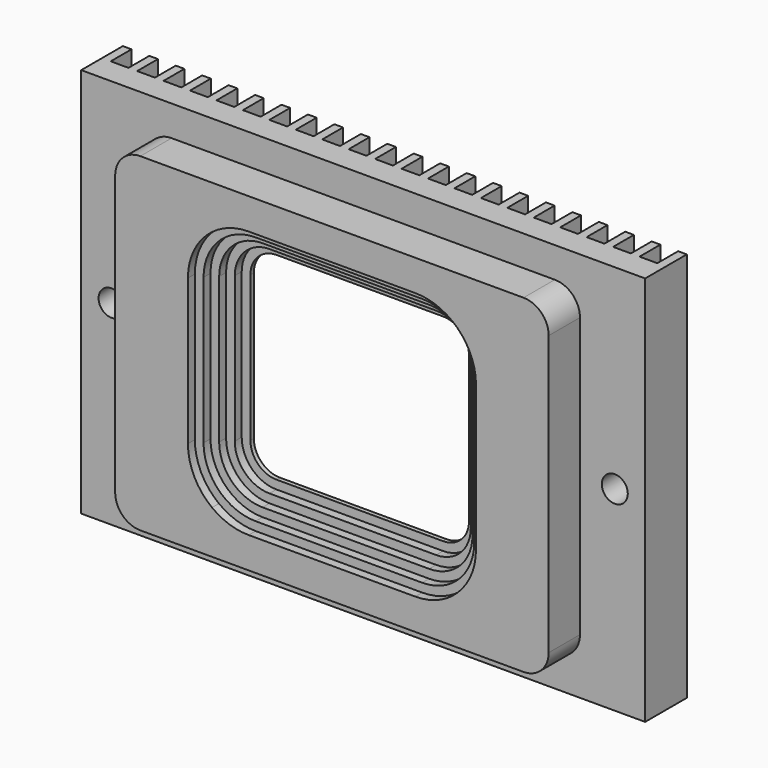
from build123d import *

# Parameters (mm, degrees)
F0_W      = 65
F0_H      = 45
F1_DEPTH  = 3
F3_DEPTH  = 4.5
F4_R      = 1.5
F5_DEPTH  = 25
F7_DEPTH  = 2
F9_DEPTH  = 4
F11_DEPTH = 3
F13_DEPTH = 2
F15_DEPTH = 1
F17_DEPTH = 1
F18_W     = 1
F18_H     = 4.5
F18_H_2   = 45
F19_DEPTH = 3


with BuildPart() as f1:
    # F0 (on Front) → F1 (new body)
    with BuildSketch(Plane.XZ):
        Rectangle(F0_W, F0_H)
        Rectangle(F0_W, F0_H)
    extrude(amount=F1_DEPTH)

    # F2 (on face) → F3 (join)
    with BuildSketch(Plane.XZ.offset(3)):
        with BuildLine():
            Line((22.085, 18.985), (-22.085, 18.985))
            ThreePointArc((-22.085, 18.985), (-24.1356096654, 18.1356096654), (-24.985, 16.085))
            Line((-24.985, 16.085), (-24.985, -16.085))
            ThreePointArc((-24.985, -16.085), (-24.1356096654, -18.1356096654), (-22.085, -18.985))
            Line((-22.085, -18.985), (22.085, -18.985))
            ThreePointArc((22.085, -18.985), (24.1356096654, -18.1356096654), (24.985, -16.085))
            Line((24.985, -16.085), (24.985, 16.085))
            ThreePointArc((24.985, 16.085), (24.1356096654, 18.1356096654), (22.085, 18.985))
        make_face()
    extrude(amount=F3_DEPTH)

    # F4 (on face) → F5 (cut)
    with BuildSketch(Plane.XZ.offset(7.5)):
        with BuildLine():
            Line((9.6, 11.4), (-9.6, 11.4))
            ThreePointArc((-9.6, 11.4), (-11.7213203436, 10.5213203436), (-12.6, 8.4))
            Line((-12.6, 8.4), (-12.6, -8.4))
            ThreePointArc((-12.6, -8.4), (-11.7213203436, -10.5213203436), (-9.6, -11.4))
            Line((-9.6, -11.4), (9.6, -11.4))
            ThreePointArc((9.6, -11.4), (11.7213203436, -10.5213203436), (12.6, -8.4))
            Line((12.6, -8.4), (12.6, 8.4))
            ThreePointArc((12.6, 8.4), (11.7213203436, 10.5213203436), (9.6, 11.4))
        make_face()
        with Locations((-29, 0)):
            Circle(F4_R)
        with Locations((29, 0)):
            Circle(F4_R)
    extrude(amount=-F5_DEPTH, mode=Mode.SUBTRACT)

    # F6 (on face) → F7 (cut)
    with BuildSketch(Plane(origin=(0, 0, 0), x_dir=(-1, 0, 0), z_dir=(0, 1, 0))):
        with BuildLine():
            Line((-20.7, -12.8), (-24.3, -12.8))
            ThreePointArc((-24.3, -12.8), (-25.0071067812, -13.0928932188), (-25.3, -13.8))
            Line((-25.3, -13.8), (-25.3, -16))
            ThreePointArc((-25.3, -16), (-25.0071067812, -16.7071067812), (-24.3, -17))
            Line((-24.3, -17), (22.7, -17))
            ThreePointArc((22.7, -17), (23.4071067812, -16.7071067812), (23.7, -16))
            Line((23.7, -16), (23.7, -13.8))
            ThreePointArc((23.7, -13.8), (23.4071067812, -13.0928932188), (22.7, -12.8))
            Line((22.7, -12.8), (19.1, -12.8))
            ThreePointArc((19.1, -12.8), (18.8878679656, -12.7121320344), (18.8, -12.5))
            Line((18.8, -12.5), (18.8, -9.3))
            ThreePointArc((18.8, -9.3), (18.8878679656, -9.0878679656), (19.1, -9))
            Line((19.1, -9), (22.7, -9))
            ThreePointArc((22.7, -9), (23.4071067812, -8.7071067812), (23.7, -8))
            Line((23.7, -8), (23.7, 8))
            ThreePointArc((23.7, 8), (23.4071067812, 8.7071067812), (22.7, 9))
            Line((22.7, 9), (19.1, 9))
            ThreePointArc((19.1, 9), (18.8878679656, 9.0878679656), (18.8, 9.3))
            Line((18.8, 9.3), (18.8, 12.5))
            ThreePointArc((18.8, 12.5), (18.8878679656, 12.7121320344), (19.1, 12.8))
            Line((19.1, 12.8), (22.7, 12.8))
            ThreePointArc((22.7, 12.8), (23.4071067812, 13.0928932188), (23.7, 13.8))
            Line((23.7, 13.8), (23.7, 16))
            ThreePointArc((23.7, 16), (23.4071067812, 16.7071067812), (22.7, 17))
            Line((22.7, 17), (-24.3, 17))
            ThreePointArc((-24.3, 17), (-25.0071067812, 16.7071067812), (-25.3, 16))
            Line((-25.3, 16), (-25.3, 13.8))
            ThreePointArc((-25.3, 13.8), (-25.0071067812, 13.0928932188), (-24.3, 12.8))
            Line((-24.3, 12.8), (-20.7, 12.8))
            ThreePointArc((-20.7, 12.8), (-20.4878679656, 12.7121320344), (-20.4, 12.5))
            Line((-20.4, 12.5), (-20.4, 9.3))
            ThreePointArc((-20.4, 9.3), (-20.4878679656, 9.0878679656), (-20.7, 9))
            Line((-20.7, 9), (-24.3, 9))
            ThreePointArc((-24.3, 9), (-25.0071067812, 8.7071067812), (-25.3, 8))
            Line((-25.3, 8), (-25.3, -8))
            ThreePointArc((-25.3, -8), (-25.0071067812, -8.7071067812), (-24.3, -9))
            Line((-24.3, -9), (-20.7, -9))
            ThreePointArc((-20.7, -9), (-20.4878679656, -9.0878679656), (-20.4, -9.3))
            Line((-20.4, -9.3), (-20.4, -12.5))
            ThreePointArc((-20.4, -12.5), (-20.4878679656, -12.7121320344), (-20.7, -12.8))
        make_face()
        with BuildLine():
            ThreePointArc((-12.6, 8.4), (-11.7213203436, 10.5213203436), (-9.6, 11.4))
            Line((-9.6, 11.4), (9.6, 11.4))
            ThreePointArc((9.6, 11.4), (11.7213203436, 10.5213203436), (12.6, 8.4))
            Line((12.6, 8.4), (12.6, -8.4))
            ThreePointArc((12.6, -8.4), (11.7213203436, -10.5213203436), (9.6, -11.4))
            Line((9.6, -11.4), (-9.6, -11.4))
            ThreePointArc((-9.6, -11.4), (-11.7213203436, -10.5213203436), (-12.6, -8.4))
            Line((-12.6, -8.4), (-12.6, 8.4))
        make_face(mode=Mode.SUBTRACT)
    extrude(amount=-F7_DEPTH, mode=Mode.SUBTRACT)

    # F8 (on face) → F9 (cut)
    with BuildSketch(Plane.XZ.offset(7.5)):
        with BuildLine():
            Line((9.6, 12.4), (-9.6, 12.4))
            ThreePointArc((-9.6, 12.4), (-12.4284271247, 11.2284271247), (-13.6, 8.4))
            Line((-13.6, 8.4), (-13.6, -8.4))
            ThreePointArc((-13.6, -8.4), (-12.4284271247, -11.2284271247), (-9.6, -12.4))
            Line((-9.6, -12.4), (9.6, -12.4))
            ThreePointArc((9.6, -12.4), (12.4284271247, -11.2284271247), (13.6, -8.4))
            Line((13.6, -8.4), (13.6, 8.4))
            ThreePointArc((13.6, 8.4), (12.4284271247, 11.2284271247), (9.6, 12.4))
        make_face()
        with BuildLine():
            ThreePointArc((-12.6, 8.4), (-11.7213203436, 10.5213203436), (-9.6, 11.4))
            Line((-9.6, 11.4), (9.6, 11.4))
            ThreePointArc((9.6, 11.4), (11.7213203436, 10.5213203436), (12.6, 8.4))
            Line((12.6, 8.4), (12.6, -8.4))
            ThreePointArc((12.6, -8.4), (11.7213203436, -10.5213203436), (9.6, -11.4))
            Line((9.6, -11.4), (-9.6, -11.4))
            ThreePointArc((-9.6, -11.4), (-11.7213203436, -10.5213203436), (-12.6, -8.4))
            Line((-12.6, -8.4), (-12.6, 8.4))
        make_face(mode=Mode.SUBTRACT)
    extrude(amount=-F9_DEPTH, mode=Mode.SUBTRACT)

    # F10 (on face) → F11 (cut)
    with BuildSketch(Plane.XZ.offset(7.5)):
        with BuildLine():
            Line((9.6, 13.4), (-9.6, 13.4))
            ThreePointArc((-9.6, 13.4), (-13.1355339059, 11.9355339059), (-14.6, 8.4))
            Line((-14.6, 8.4), (-14.6, -8.4))
            ThreePointArc((-14.6, -8.4), (-13.1355339059, -11.9355339059), (-9.6, -13.4))
            Line((-9.6, -13.4), (9.6, -13.4))
            ThreePointArc((9.6, -13.4), (13.1355339059, -11.9355339059), (14.6, -8.4))
            Line((14.6, -8.4), (14.6, 8.4))
            ThreePointArc((14.6, 8.4), (13.1355339059, 11.9355339059), (9.6, 13.4))
        make_face()
        with BuildLine():
            ThreePointArc((-13.6, 8.4), (-12.4284271247, 11.2284271247), (-9.6, 12.4))
            Line((-9.6, 12.4), (9.6, 12.4))
            ThreePointArc((9.6, 12.4), (12.4284271247, 11.2284271247), (13.6, 8.4))
            Line((13.6, 8.4), (13.6, -8.4))
            ThreePointArc((13.6, -8.4), (12.4284271247, -11.2284271247), (9.6, -12.4))
            Line((9.6, -12.4), (-9.6, -12.4))
            ThreePointArc((-9.6, -12.4), (-12.4284271247, -11.2284271247), (-13.6, -8.4))
            Line((-13.6, -8.4), (-13.6, 8.4))
        make_face(mode=Mode.SUBTRACT)
    extrude(amount=-F11_DEPTH, mode=Mode.SUBTRACT)

    # F12 (on face) → F13 (cut)
    with BuildSketch(Plane.XZ.offset(7.5)):
        with BuildLine():
            Line((9.6, 14.4), (-9.6, 14.4))
            ThreePointArc((-9.6, 14.4), (-13.8426406871, 12.6426406871), (-15.6, 8.4))
            Line((-15.6, 8.4), (-15.6, -8.4))
            ThreePointArc((-15.6, -8.4), (-13.8426406871, -12.6426406871), (-9.6, -14.4))
            Line((-9.6, -14.4), (9.6, -14.4))
            ThreePointArc((9.6, -14.4), (13.8426406871, -12.6426406871), (15.6, -8.4))
            Line((15.6, -8.4), (15.6, 8.4))
            ThreePointArc((15.6, 8.4), (13.8426406871, 12.6426406871), (9.6, 14.4))
        make_face()
        with BuildLine():
            ThreePointArc((-14.6, 8.4), (-13.1355339059, 11.9355339059), (-9.6, 13.4))
            Line((-9.6, 13.4), (9.6, 13.4))
            ThreePointArc((9.6, 13.4), (13.1355339059, 11.9355339059), (14.6, 8.4))
            Line((14.6, 8.4), (14.6, -8.4))
            ThreePointArc((14.6, -8.4), (13.1355339059, -11.9355339059), (9.6, -13.4))
            Line((9.6, -13.4), (-9.6, -13.4))
            ThreePointArc((-9.6, -13.4), (-13.1355339059, -11.9355339059), (-14.6, -8.4))
            Line((-14.6, -8.4), (-14.6, 8.4))
        make_face(mode=Mode.SUBTRACT)
    extrude(amount=-F13_DEPTH, mode=Mode.SUBTRACT)

    # F14 (on face) → F15 (cut)
    with BuildSketch(Plane.XZ.offset(7.5)):
        with BuildLine():
            ThreePointArc((-9.6, 14.4), (-10.7157956802, 14.2953371405), (-11.7926639049, 13.985))
            Line((-11.7926639049, 13.985), (11.7926639049, 13.985))
            ThreePointArc((11.7926639049, 13.985), (10.7157956802, 14.2953371405), (9.6, 14.4))
            Line((9.6, 14.4), (-9.6, 14.4))
        make_face()
        with BuildLine():
            Line((11.7926639049, -13.985), (-11.7926639049, -13.985))
            ThreePointArc((-11.7926639049, -13.985), (-10.7157956802, -14.2953371405), (-9.6, -14.4))
            Line((-9.6, -14.4), (9.6, -14.4))
            ThreePointArc((9.6, -14.4), (10.7157956802, -14.2953371405), (11.7926639049, -13.985))
        make_face()
        with BuildLine():
            Line((9.6, 15.4), (-9.6, 15.4))
            ThreePointArc((-9.6, 15.4), (-11.8254213084, 15.0368290621), (-13.8199259472, 13.985))
            Line((-13.8199259472, 13.985), (-11.7926639049, 13.985))
            ThreePointArc((-11.7926639049, 13.985), (-10.7157956802, 14.2953371405), (-9.6, 14.4))
            Line((-9.6, 14.4), (9.6, 14.4))
            ThreePointArc((9.6, 14.4), (10.7157956802, 14.2953371405), (11.7926639049, 13.985))
            Line((11.7926639049, 13.985), (13.8199259472, 13.985))
            ThreePointArc((13.8199259472, 13.985), (11.8254213084, 15.0368290621), (9.6, 15.4))
        make_face()
        with BuildLine():
            ThreePointArc((16.6, 8.4), (15.8665573336, 11.5193363372), (13.8199259472, 13.985))
            Line((13.8199259472, 13.985), (11.7926639049, 13.985))
            ThreePointArc((11.7926639049, 13.985), (14.5576195613, 11.7796461775), (15.6, 8.4))
            Line((15.6, 8.4), (15.6, -8.4))
            ThreePointArc((15.6, -8.4), (14.5576195613, -11.7796461775), (11.7926639049, -13.985))
            Line((11.7926639049, -13.985), (13.8199259472, -13.985))
            ThreePointArc((13.8199259472, -13.985), (15.8665573336, -11.5193363372), (16.6, -8.4))
            Line((16.6, -8.4), (16.6, 8.4))
        make_face()
        with BuildLine():
            Line((-11.7926639049, 13.985), (-13.8199259472, 13.985))
            ThreePointArc((-13.8199259472, 13.985), (-15.8665573336, 11.5193363372), (-16.6, 8.4))
            Line((-16.6, 8.4), (-16.6, -8.4))
            ThreePointArc((-16.6, -8.4), (-15.8665573336, -11.5193363372), (-13.8199259472, -13.985))
            Line((-13.8199259472, -13.985), (-11.7926639049, -13.985))
            ThreePointArc((-11.7926639049, -13.985), (-14.5576195613, -11.7796461775), (-15.6, -8.4))
            Line((-15.6, -8.4), (-15.6, 8.4))
            ThreePointArc((-15.6, 8.4), (-14.5576195613, 11.7796461775), (-11.7926639049, 13.985))
        make_face()
        with BuildLine():
            Line((-11.7926639049, -13.985), (-13.8199259472, -13.985))
            ThreePointArc((-13.8199259472, -13.985), (-11.8254213084, -15.0368290621), (-9.6, -15.4))
            Line((-9.6, -15.4), (9.6, -15.4))
            ThreePointArc((9.6, -15.4), (11.8254213084, -15.0368290621), (13.8199259472, -13.985))
            Line((13.8199259472, -13.985), (11.7926639049, -13.985))
            ThreePointArc((11.7926639049, -13.985), (10.7157956802, -14.2953371405), (9.6, -14.4))
            Line((9.6, -14.4), (-9.6, -14.4))
            ThreePointArc((-9.6, -14.4), (-10.7157956802, -14.2953371405), (-11.7926639049, -13.985))
        make_face()
        with BuildLine():
            Line((11.7926639049, 13.985), (-11.7926639049, 13.985))
            ThreePointArc((-11.7926639049, 13.985), (-14.5576195613, 11.7796461775), (-15.6, 8.4))
            Line((-15.6, 8.4), (-15.6, -8.4))
            ThreePointArc((-15.6, -8.4), (-14.5576195613, -11.7796461775), (-11.7926639049, -13.985))
            Line((-11.7926639049, -13.985), (11.7926639049, -13.985))
            ThreePointArc((11.7926639049, -13.985), (14.5576195613, -11.7796461775), (15.6, -8.4))
            Line((15.6, -8.4), (15.6, 8.4))
            ThreePointArc((15.6, 8.4), (14.5576195613, 11.7796461775), (11.7926639049, 13.985))
        make_face()
    extrude(amount=-F15_DEPTH, mode=Mode.SUBTRACT)

    # F16 (on face) → F17 (cut)
    with BuildSketch(Plane(origin=(0, -2, 0), x_dir=(-1, 0, 0), z_dir=(0, 1, 0))):
        with BuildLine():
            Line((16.2, 17), (-17.8, 17))
            ThreePointArc((-17.8, 17), (-18.5071067812, 16.7071067812), (-18.8, 16))
            Line((-18.8, 16), (-18.8, -16))
            ThreePointArc((-18.8, -16), (-18.5071067812, -16.7071067812), (-17.8, -17))
            Line((-17.8, -17), (16.2, -17))
            ThreePointArc((16.2, -17), (16.9071067812, -16.7071067812), (17.2, -16))
            Line((17.2, -16), (17.2, 16))
            ThreePointArc((17.2, 16), (16.9071067812, 16.7071067812), (16.2, 17))
        make_face()
        with BuildLine():
            Line((-12.6, -8.4), (-12.6, 8.4))
            ThreePointArc((-12.6, 8.4), (-11.7213203436, 10.5213203436), (-9.6, 11.4))
            Line((-9.6, 11.4), (9.6, 11.4))
            ThreePointArc((9.6, 11.4), (11.7213203436, 10.5213203436), (12.6, 8.4))
            Line((12.6, 8.4), (12.6, -8.4))
            ThreePointArc((12.6, -8.4), (11.7213203436, -10.5213203436), (9.6, -11.4))
            Line((9.6, -11.4), (-9.6, -11.4))
            ThreePointArc((-9.6, -11.4), (-11.7213203436, -10.5213203436), (-12.6, -8.4))
        make_face(mode=Mode.SUBTRACT)
    extrude(amount=-F17_DEPTH, mode=Mode.SUBTRACT)

    # F18 (on face) → F19 (join)
    with BuildSketch(Plane(origin=(0, 0, 0), x_dir=(-1, 0, 0), z_dir=(0, 1, 0))):
        Polygon((-31.5, 22.5), (-32.5, 22.5), (-32.5, -22.5), (-31.5, -22.5), (-31.5, 0), align=None)
        with BuildLine():
            ThreePointArc((-28.4523809524, -2.4392854238), (-28.9513986302, -2.4995275367), (-29.4523809524, -2.4587296464))
            Line((-29.4523809524, -2.4587296464), (-29.4523809524, -22.5))
            Line((-29.4523809524, -22.5), (-28.4523809524, -22.5))
            Line((-28.4523809524, -22.5), (-28.4523809524, -2.4392854238))
        make_face()
        with BuildLine():
            Line((-28.4523809524, 22.5), (-29.4523809524, 22.5))
            Line((-29.4523809524, 22.5), (-29.4523809524, 2.4587296464))
            ThreePointArc((-29.4523809524, 2.4587296464), (-28.9513986302, 2.4995275367), (-28.4523809524, 2.4392854238))
            Line((-28.4523809524, 2.4392854238), (-28.4523809524, 22.5))
        make_face()
        with BuildLine():
            Line((-25.4047619048, 22.5), (-26.4047619048, 22.5))
            Line((-26.4047619048, 22.5), (-26.4047619048, -22.5))
            Line((-26.4047619048, -22.5), (-25.4047619048, -22.5))
            Line((-25.4047619048, -22.5), (-25.4047619048, -17.6671835933))
            ThreePointArc((-25.4047619048, -17.6671835933), (-26.0620334573, -16.9461702253), (-26.3, -16))
            Line((-26.3, -16), (-26.3, 16))
            ThreePointArc((-26.3, 16), (-26.0620334573, 16.9461702253), (-25.4047619048, 17.6671835933))
            Line((-25.4047619048, 17.6671835933), (-25.4047619048, 22.5))
        make_face()
        with Locations((-22.8571428571, -20.25)):
            Rectangle(F18_W, F18_H)
        with Locations((-19.8095238095, -20.25)):
            Rectangle(F18_W, F18_H)
        with Locations((-16.7619047619, -20.25)):
            Rectangle(F18_W, F18_H)
        with Locations((-13.7142857143, -20.25)):
            Rectangle(F18_W, F18_H)
        with Locations((-10.6666666667, -20.25)):
            Rectangle(F18_W, F18_H)
        with Locations((-7.619047619, -20.25)):
            Rectangle(F18_W, F18_H)
        with Locations((-4.5714285714, -20.25)):
            Rectangle(F18_W, F18_H)
        with Locations((-1.5238095238, -20.25)):
            Rectangle(F18_W, F18_H)
        with Locations((1.5238095238, -20.25)):
            Rectangle(F18_W, F18_H)
        with Locations((4.5714285714, -20.25)):
            Rectangle(F18_W, F18_H)
        with Locations((7.619047619, -20.25)):
            Rectangle(F18_W, F18_H)
        with Locations((10.6666666667, -20.25)):
            Rectangle(F18_W, F18_H)
        with Locations((13.7142857143, -20.25)):
            Rectangle(F18_W, F18_H)
        with Locations((16.7619047619, -20.25)):
            Rectangle(F18_W, F18_H)
        with Locations((19.8095238095, -20.25)):
            Rectangle(F18_W, F18_H)
        with BuildLine():
            Line((22.3571428571, -18), (22.3571428571, -22.5))
            Line((22.3571428571, -22.5), (23.3571428571, -22.5))
            Line((23.3571428571, -22.5), (23.3571428571, -17.8889582487))
            ThreePointArc((23.3571428571, -17.8889582487), (23.0332292774, -17.9720441802), (22.7, -18))
            Line((22.7, -18), (22.3571428571, -18))
        make_face()
        with BuildLine():
            Line((28.4523809524, -2.4392854238), (28.4523809524, -22.5))
            Line((28.4523809524, -22.5), (29.4523809524, -22.5))
            Line((29.4523809524, -22.5), (29.4523809524, -2.4587296464))
            ThreePointArc((29.4523809524, -2.4587296464), (28.9513986302, -2.4995275367), (28.4523809524, -2.4392854238))
        make_face()
        Polygon((32.5, 22.5), (31.5, 22.5), (31.5, 0), (31.5, -22.5), (32.5, -22.5), align=None)
        Polygon((32.5, 22.5), (31.5, 22.5), (31.5, 0), (31.5, -22.5), (32.5, -22.5), align=None)
        with BuildLine():
            Line((29.4523809524, 22.5), (28.4523809524, 22.5))
            Line((28.4523809524, 22.5), (28.4523809524, 2.4392854238))
            ThreePointArc((28.4523809524, 2.4392854238), (28.9513986302, 2.4995275367), (29.4523809524, 2.4587296464))
            Line((29.4523809524, 2.4587296464), (29.4523809524, 22.5))
        make_face()
        with BuildLine():
            Line((23.3571428571, 22.5), (22.3571428571, 22.5))
            Line((22.3571428571, 22.5), (22.3571428571, 18))
            Line((22.3571428571, 18), (22.7, 18))
            ThreePointArc((22.7, 18), (23.0332292774, 17.9720441802), (23.3571428571, 17.8889582487))
            Line((23.3571428571, 17.8889582487), (23.3571428571, 22.5))
        make_face()
        with Locations((19.8095238095, 20.25)):
            Rectangle(F18_W, F18_H)
        with Locations((16.7619047619, 20.25)):
            Rectangle(F18_W, F18_H)
        with Locations((13.7142857143, 20.25)):
            Rectangle(F18_W, F18_H)
        with Locations((10.6666666667, 20.25)):
            Rectangle(F18_W, F18_H)
        with Locations((7.619047619, 20.25)):
            Rectangle(F18_W, F18_H)
        with Locations((4.5714285714, 20.25)):
            Rectangle(F18_W, F18_H)
        with Locations((1.5238095238, 20.25)):
            Rectangle(F18_W, F18_H)
        with Locations((-1.5238095238, 20.25)):
            Rectangle(F18_W, F18_H)
        with Locations((-4.5714285714, 20.25)):
            Rectangle(F18_W, F18_H)
        with Locations((-7.619047619, 20.25)):
            Rectangle(F18_W, F18_H)
        with Locations((-10.6666666667, 20.25)):
            Rectangle(F18_W, F18_H)
        with Locations((-13.7142857143, 20.25)):
            Rectangle(F18_W, F18_H)
        with Locations((-16.7619047619, 20.25)):
            Rectangle(F18_W, F18_H)
        with Locations((-19.8095238095, 20.25)):
            Rectangle(F18_W, F18_H)
        with Locations((-22.8571428571, 20.25)):
            Rectangle(F18_W, F18_H)
        with Locations((25.9047619048, 0)):
            Rectangle(F18_W, F18_H_2)
    extrude(amount=F19_DEPTH)


solid = f1.part
